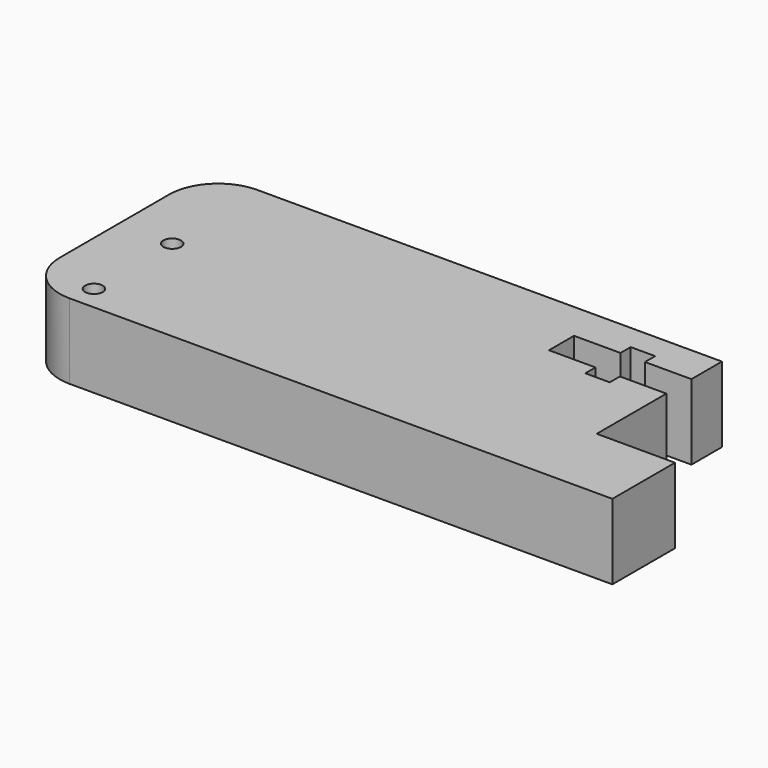
from build123d import *

# Parameters (mm, degrees)
F1_DEPTH = 7.7
F2_R     = 0.9
F3_DEPTH = 7.7
F4_R     = 5


with BuildPart() as f1:
    # F0 (on Top) → F1 (new body)
    with BuildSketch(Plane.XY):
        Polygon((0, -8), (0, 0), (-8, 0), (-8, 16), (-60.5, 16), (-60.5, -8), align=None)
    extrude(amount=F1_DEPTH)

    # F2 (on face) → F3 (cut, through all)
    with BuildSketch(Plane.XY.offset(7.7)):
        with Locations((-55, 4.5)):
            Circle(F2_R)
        with Locations((-55, -5.5)):
            Circle(F2_R)
        Polygon((-12.75, 8.9), (-8, 8.9), (-8, 12.1), (-12.75, 12.1), (-12.75, 13.4), (-15.25, 13.4), (-15.25, 12.1), (-20, 12.1), (-20, 8.9), (-15.25, 8.9), (-15.25, 7.6), (-12.75, 7.6), align=None)
    extrude(amount=-F3_DEPTH, mode=Mode.SUBTRACT)

    # F4
    f4_edges = [f1.edges().sort_by_distance(p)[0] for p in [
        (-60.5, 16, 3.85),
        (-60.5, -8, 3.85),
    ]]
    fillet(f4_edges, radius=F4_R)


solid = f1.part
